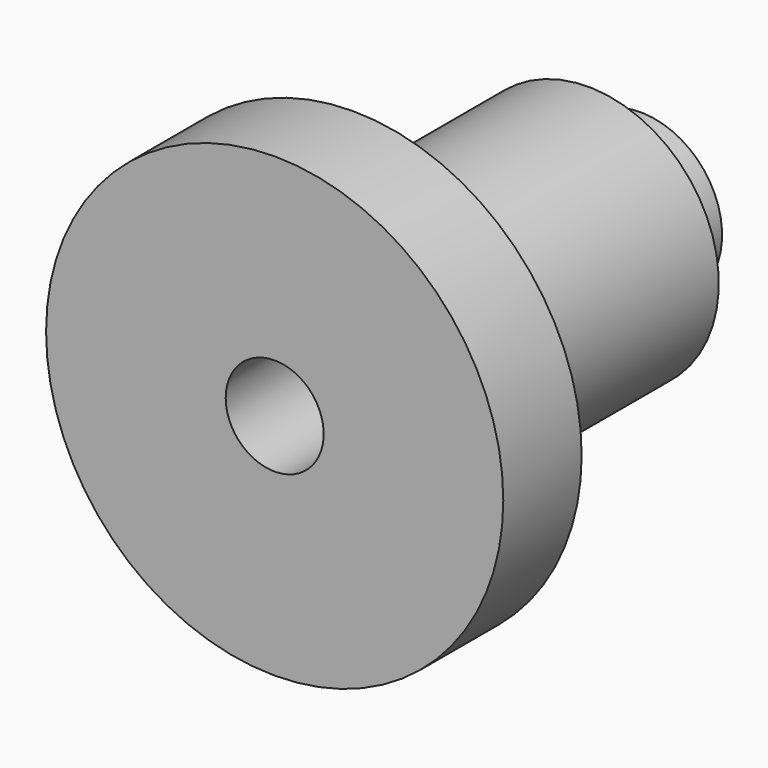
from build123d import *

# Parameters (mm, degrees)
F0_W = 6.35
F0_H = 12.7


with BuildPart() as f1:
    # F0 (on Top) → F1 (revolve)
    with BuildSketch(Plane.XY):
        Polygon((-5.963771, -11.02523), (-5.963771, 46.12477), (-12.313771, 46.12477), (-21.838771, 46.12477), (-21.838771, -11.02523), align=None)
        Polygon((-5.963771, -30.07523), (-5.963771, -11.02523), (-21.838771, -11.02523), (-40.888771, -11.02523), (-40.888771, -30.07523), align=None)
        with Locations((-9.138771, 52.47477)):
            Rectangle(F0_W, F0_H)
    revolve(axis=Axis((3.561229, 14.37477, 0), (0, -1, 0)))


solid = f1.part
